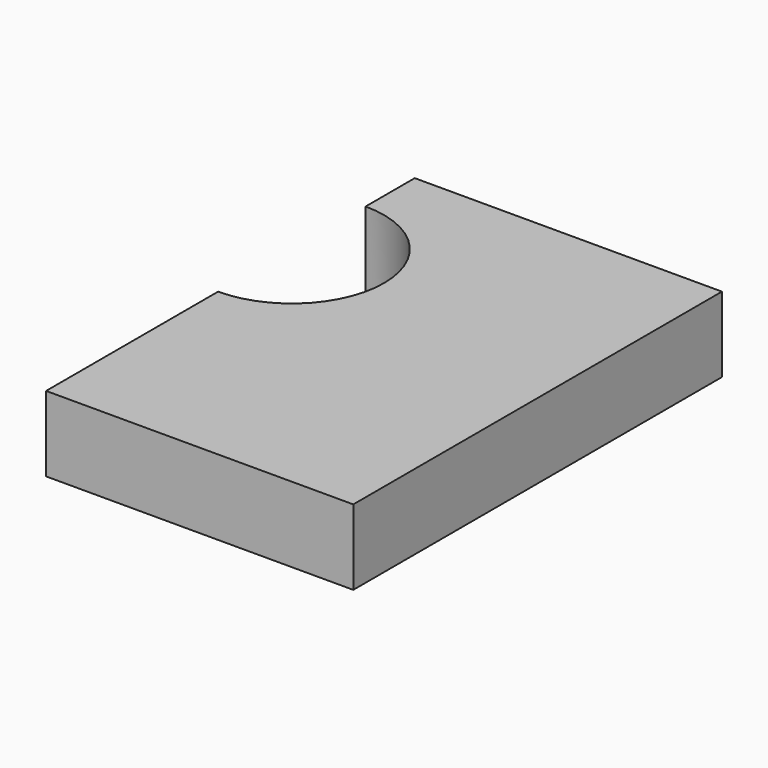
from build123d import *

# Parameters (mm, degrees)
F1_DEPTH = 4.9


with BuildPart() as f1:
    # F0 (on Top) → F1 (new body)
    with BuildSketch(Plane.XY):
        with BuildLine():
            Line((10, -15), (10, 15))
            Line((10, 15), (-10, 15))
            Line((-10, 15), (-10, 11))
            ThreePointArc((-10, 11), (-5.757359, 9.242641), (-4, 5))
            ThreePointArc((-4, 5), (-5.757359, 0.757359), (-10, -1))
            Line((-10, -1), (-10, -15))
            Line((-10, -15), (10, -15))
        make_face()
    extrude(amount=F1_DEPTH)


solid = f1.part
